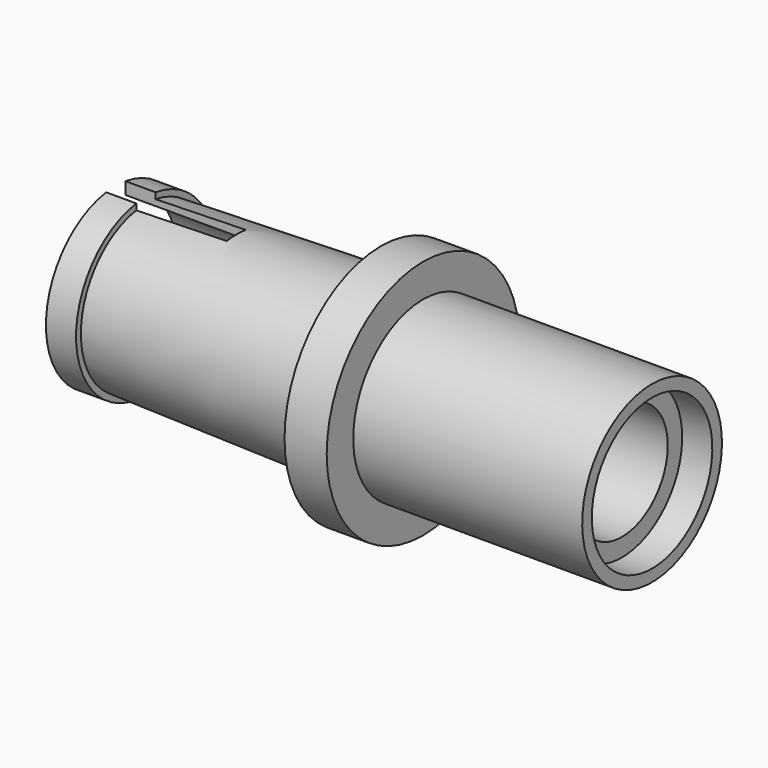
from build123d import *

# Parameters (mm, degrees)
F3_DEPTH = 5.08


with BuildPart() as f1:
    # F0 (on Front) → F1 (revolve)
    with BuildSketch(Plane.XZ):
        Polygon((0, 2.413), (0, 0), (1.778, 0), (1.778, 2.413), (10.16, 2.413), (10.16, 3.175), (11.43, 3.175), (11.43, 3.683), (1.778, 3.683), (1.778, 5.08), (0, 5.08), (0, 3.683), (-9.906, 3.429), (-9.906, 3.683), (-11.176, 3.683), (-11.176, 3.175), (-4.826, 3.175), (-4.826, 2.413), align=None)
    revolve(axis=Axis((1.0083221515, 0, 0), (1, 0, 0)))

    # F2 (on face) → F3 (cut)
    with BuildSketch(Plane(origin=(-11.176, 0, 0), x_dir=(0, -1, 0), z_dir=(-1, 0, 0))):
        with BuildLine():
            ThreePointArc((0.508, 3.6477972806), (0, 3.683), (-0.508, 3.6477972806))
            Line((-0.508, 3.6477972806), (-0.508, 3.1340965205))
            ThreePointArc((-0.508, 3.1340965205), (0, 3.175), (0.508, 3.1340965205))
            Line((0.508, 3.1340965205), (0.508, 3.6477972806))
        make_face()
        with BuildLine():
            ThreePointArc((0.508, 3.1340965205), (0, 3.175), (-0.508, 3.1340965205))
            Line((-0.508, 3.1340965205), (-0.508, -3.1340965205))
            ThreePointArc((-0.508, -3.1340965205), (0, -3.175), (0.508, -3.1340965205))
            Line((0.508, -3.1340965205), (0.508, 3.1340965205))
        make_face()
        with BuildLine():
            Line((-0.508, -3.1340965205), (-0.508, -3.6477972806))
            ThreePointArc((-0.508, -3.6477972806), (0, -3.683), (0.508, -3.6477972806))
            Line((0.508, -3.6477972806), (0.508, -3.1340965205))
            ThreePointArc((0.508, -3.1340965205), (0, -3.175), (-0.508, -3.1340965205))
        make_face()
    extrude(amount=-F3_DEPTH, mode=Mode.SUBTRACT)


solid = f1.part
